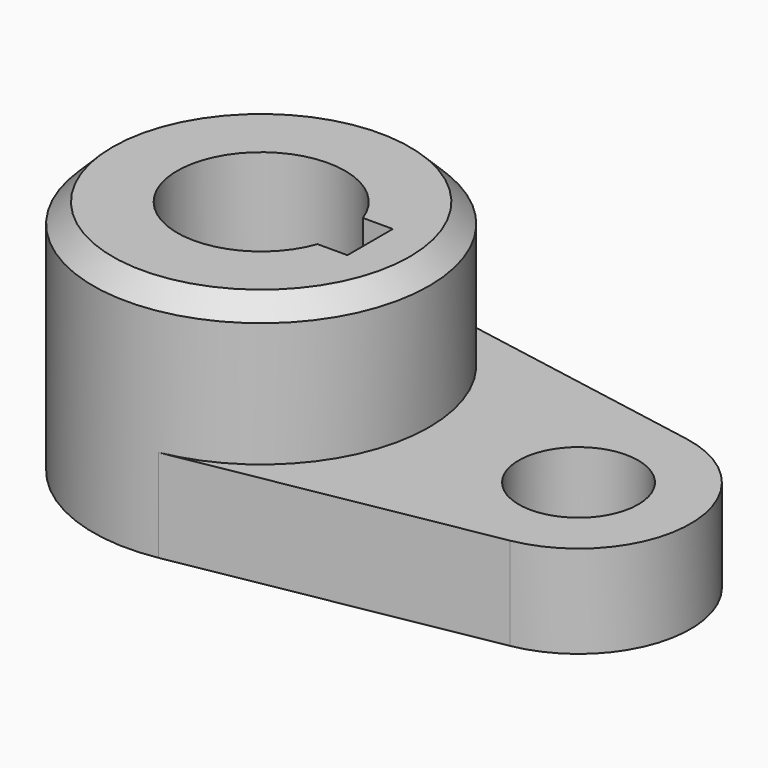
from build123d import *

# Parameters (mm, degrees)
F0_R     = 10.16
F1_DEPTH = 15.7734
F2_R     = 28.575
F3_DEPTH = 40.2336
F4_SIZE  = 3.302


with BuildPart() as f1:
    # F0 (on Top) → F1 (new body)
    with BuildSketch(Plane.XY):
        with BuildLine():
            Line((57.336765, 18.751028), (5.042647, 28.126541))
            ThreePointArc((5.042647, 28.126541), (-28.575, 0), (5.042647, -28.126541))
            Line((5.042647, -28.126541), (57.336765, -18.751028))
            ThreePointArc((57.336765, -18.751028), (73.025, 0), (57.336765, 18.751028))
        make_face()
        with Locations((53.975, 0)):
            Circle(F0_R, mode=Mode.SUBTRACT)
    extrude(amount=F1_DEPTH)

    # F2 (on Top) → F3 (join)
    with BuildSketch(Plane.XY):
        Circle(F2_R)
        with BuildLine():
            ThreePointArc((13.447765, -4.826), (-14.2875, 0), (13.447765, 4.826))
            Line((13.447765, 4.826), (18.5293, 4.826))
            Line((18.5293, 4.826), (18.5293, -4.826))
            Line((18.5293, -4.826), (13.447765, -4.826))
        make_face(mode=Mode.SUBTRACT)
    extrude(amount=F3_DEPTH)

    # F4
    f4_edges = [f1.edges().sort_by_distance(p)[0] for p in [
        (-28.575, 0, 40.2336),
    ]]
    chamfer(f4_edges, length=F4_SIZE)


solid = f1.part
